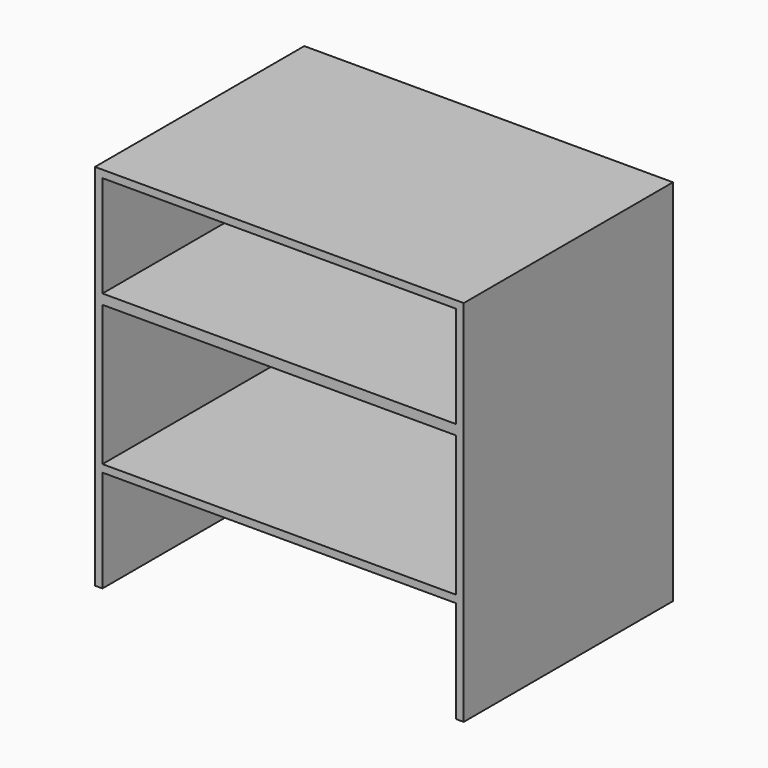
from build123d import *

# Parameters (mm, degrees)
F0_W     = 710
F0_H     = 281.493858
F0_H_2   = 203.795648
F1_DEPTH = 525
F2_W     = 15
F2_H     = 70
F3_DEPTH = 725


with BuildPart() as f1:
    # F0 (on Front) → F1 (new body)
    with BuildSketch(Plane.XZ):
        Polygon((370, -370), (370, 370), (-370, 370), (-370, -370), (-355, -370), (-355, -165.289506), (355, -165.289506), (355, -370), align=None)
        with Locations((0, -9.542577)):
            Rectangle(F0_W, F0_H, mode=Mode.SUBTRACT)
        with Locations((0, 253.102176)):
            Rectangle(F0_W, F0_H_2, mode=Mode.SUBTRACT)
    extrude(amount=F1_DEPTH)

    # F2 (on face) → F3 (join, through all)
    with BuildSketch(Plane.YZ.offset(370)):
        with Locations((-7.5, -93.434166)):
            Rectangle(F2_W, F2_H)
    extrude(amount=-F3_DEPTH)


solid = f1.part
